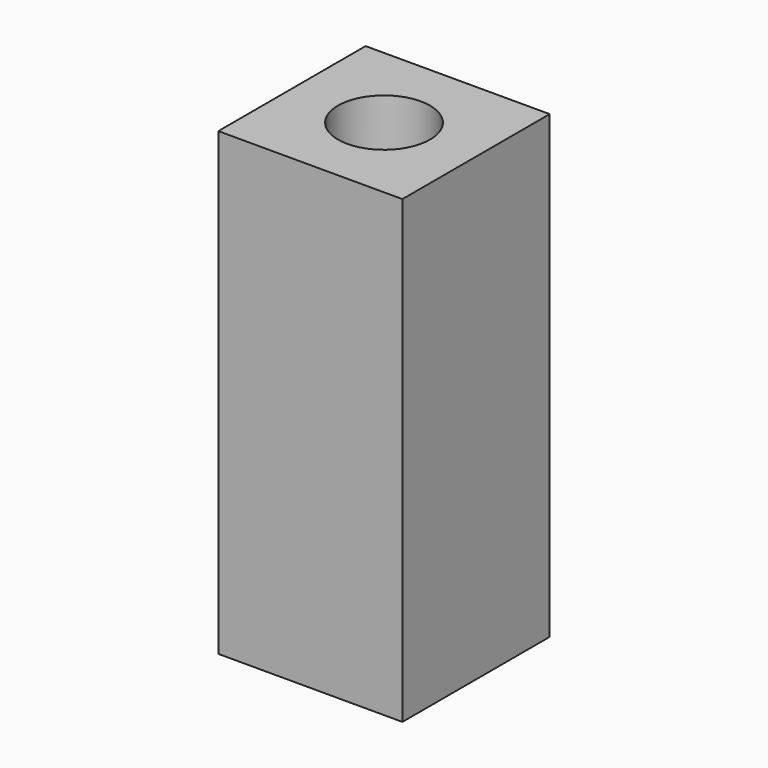
from build123d import *

# Parameters (mm, degrees)
CYLINDER_R     = 1.5
CYLINDER_DEPTH = 8
BOX_W          = 6
BOX_H          = 6
BOX_DEPTH      = 15


with BuildPart() as cylinder:
    # Cylinder → Cylinder (new body)
    with BuildSketch(Plane(origin=(3, 3, 7), x_dir=(1, 0, 0), z_dir=(0, 0, 1))):
        Circle(CYLINDER_R)
    extrude(amount=CYLINDER_DEPTH)


with BuildPart() as cut:
    # Box → Box (new body)
    with BuildSketch(Plane.XY):
        with Locations((3, 3)):
            Rectangle(BOX_W, BOX_H)
    extrude(amount=BOX_DEPTH)

    # Cut: cut Cylinder
    add(cylinder.part, mode=Mode.SUBTRACT)


solid = cut.part
